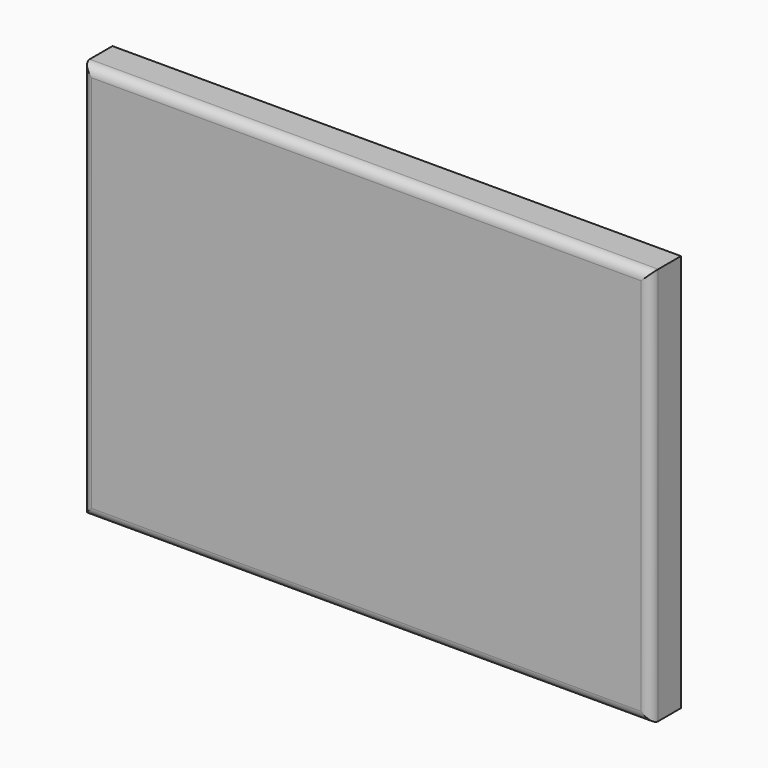
from build123d import *

# Parameters (mm, degrees)
F0_W     = 76.2
F0_H     = 53.34
F1_DEPTH = 5.08
F2_R     = 1.27


with BuildPart() as f1:
    # F0 (on Front) → F1 (new body)
    with BuildSketch(Plane.XZ):
        with Locations((-2e-06, 12.446)):
            Rectangle(F0_W, F0_H)
    extrude(amount=F1_DEPTH)

    # F2
    f2_edges = [f1.edges().sort_by_distance(p)[0] for p in [
        (-2e-06, -5.08, -14.224),
        (38.099998, -5.08, 12.446),
        (-2e-06, -5.08, 39.116),
        (-38.100002, -5.08, 12.446),
    ]]
    fillet(f2_edges, radius=F2_R)


solid = f1.part
